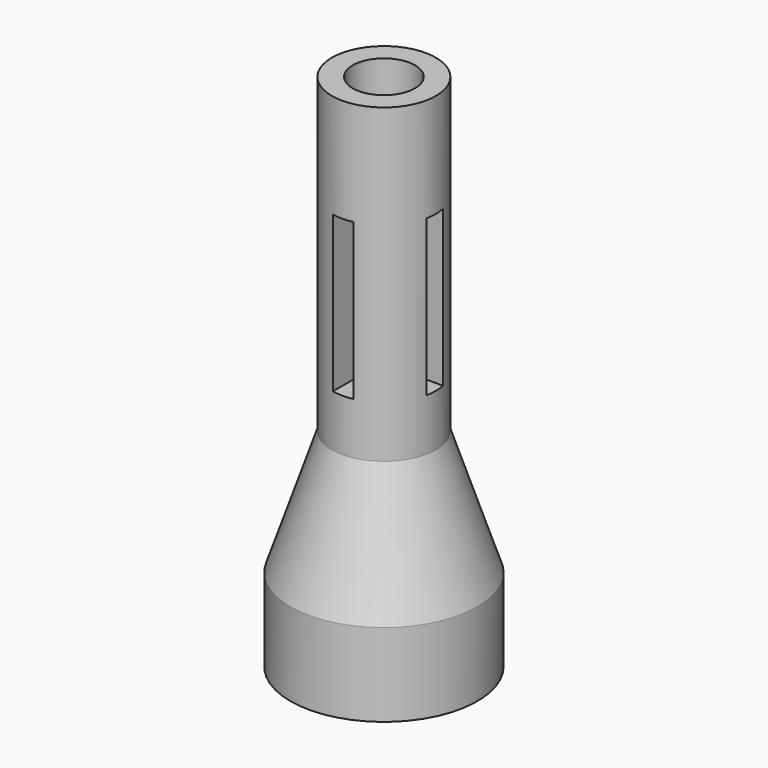
from build123d import *

# Parameters (mm, degrees)
F2_R     = 5.08
F3_DEPTH = 20.32
F5_DEPTH = 15.24
F7_DEPTH = 15.24


with BuildPart() as f1:
    # F0 (on Front) → F1 (revolve)
    with BuildSketch(Plane.XZ):
        Polygon((-22.86, 0), (0, 0), (0, 50.8), (0, 63.5), (0, 109.22), (-7.62, 109.22), (-7.62, 127), (-12.7, 127), (-12.7, 63.5), (-12.7, 50.8), (-22.86, 20.32), align=None)
    revolve(axis=Axis((0, 0, 86.36), (0, 0, -1)))

    # F2 (on Top) → F3 (cut)
    with BuildSketch(Plane.XY):
        with BuildLine():
            ThreePointArc((5.08, 10.16), (-3.592102, 13.752102), (0, 5.08))
            ThreePointArc((0, 5.08), (3.592102, 6.567898), (5.08, 10.16))
        make_face()
        with BuildLine():
            ThreePointArc((15.24, 0), (10.16, 5.08), (5.08, 0))
            ThreePointArc((5.08, 0), (10.16, -5.08), (15.24, 0))
        make_face()
        with BuildLine():
            ThreePointArc((5.08, -10.245183), (3.592102, -6.65308), (0, -5.165183))
            ThreePointArc((0, -5.165183), (-3.592102, -13.837285), (5.08, -10.245183))
        make_face()
        with Locations((-10.16, 0)):
            Circle(F2_R)
    extrude(amount=F3_DEPTH, mode=Mode.SUBTRACT)

    # F4 (on Right) → F5 (cut, symmetric)
    with BuildSketch(Plane.YZ):
        Polygon((-2.54, 63.5), (0, 63.5), (2.54, 63.5), (2.54, 101.6), (-2.54, 101.6), align=None)
    extrude(amount=F5_DEPTH, both=True, mode=Mode.SUBTRACT)

    # F6 (on Front) → F7 (cut, symmetric)
    with BuildSketch(Plane.XZ):
        Polygon((-2.54, 63.5), (0, 63.5), (2.54, 63.5), (2.54, 101.6), (-2.54, 101.6), align=None)
    extrude(amount=F7_DEPTH, both=True, mode=Mode.SUBTRACT)


solid = f1.part
